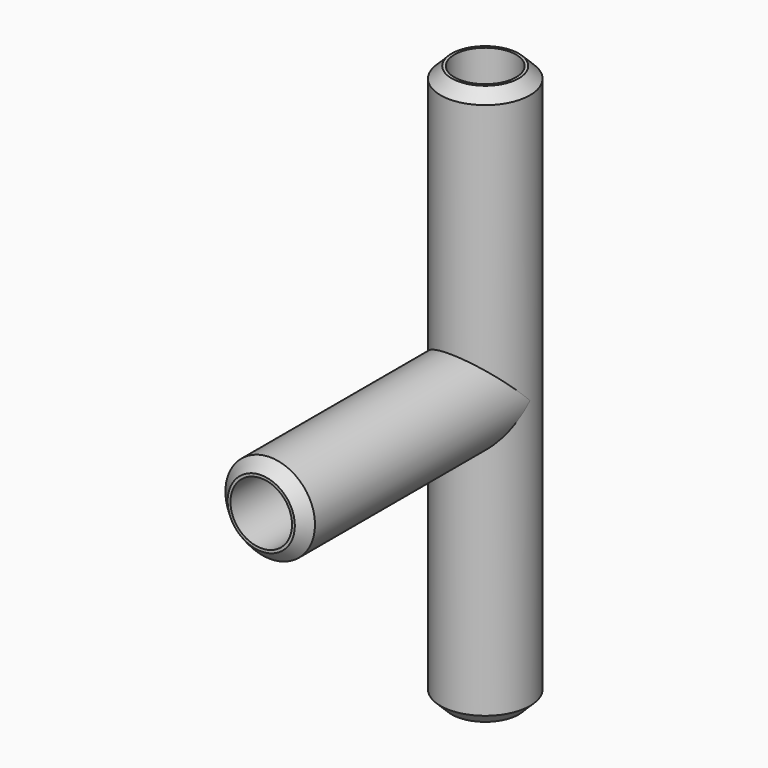
from build123d import *

# Parameters (mm, degrees)
SKETCH_R        = 4
PAD_DEPTH       = 50
SKETCH001_R     = 4
PAD001_DEPTH    = 25
SKETCH002_R     = 2.75
POCKET_DEPTH    = 50.001
SKETCH003_R     = 2.75
POCKET001_DEPTH = 25
CHAMFER_SIZE    = 1


with BuildPart() as part:
    # Sketch → Pad (new body)
    with BuildSketch(Plane.XY):
        Circle(SKETCH_R)
    extrude(amount=PAD_DEPTH)

    # Sketch001 → Pad001 (join)
    with BuildSketch(Plane.XZ):
        with Locations((0, 25)):
            Circle(SKETCH001_R)
    extrude(amount=PAD001_DEPTH)

    # Sketch002 (on Face2 of Pad001) → Pocket (cut, through all)
    with BuildSketch(Plane(origin=(0, 0, 0), x_dir=(1, 0, 0), z_dir=(0, 0, -1))):
        Circle(SKETCH002_R)
    extrude(amount=-POCKET_DEPTH, mode=Mode.SUBTRACT)

    # Sketch003 (on Face6 of Pocket) → Pocket001 (cut)
    with BuildSketch(Plane.XZ.offset(25)):
        with Locations((0, 25)):
            Circle(SKETCH003_R)
    extrude(amount=-POCKET001_DEPTH, mode=Mode.SUBTRACT)

    # Chamfer
    chamfer_edges = [part.edges().sort_by_distance(p)[0] for p in [
        (-4, 0, 0),
        (-4, -25, 25),
        (-4, 0, 50),
    ]]
    chamfer(chamfer_edges, length=CHAMFER_SIZE)


solid = part.part
